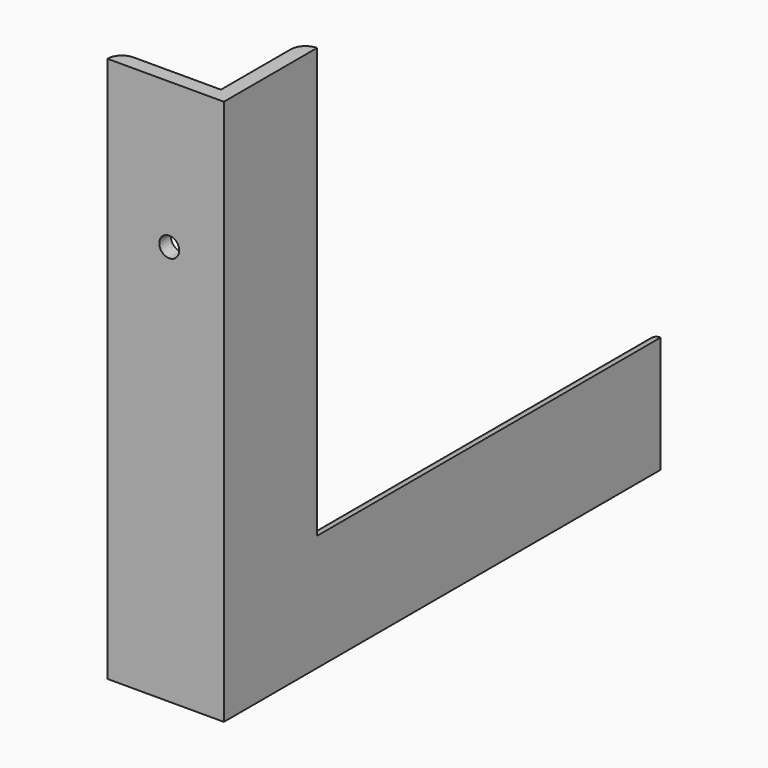
from build123d import *

# Parameters (mm, degrees)
PAD003_DEPTH    = 150
PAD004_DEPTH    = 150
SKETCH012_R     = 2.75
POCKET001_DEPTH = 150.001


with BuildPart() as part:
    # Sketch003 → Pad003 (new body)
    with BuildSketch(Plane.XY):
        with BuildLine():
            Line((0, 32), (0, 0))
            Line((0, 0), (-32, 0))
            ThreePointArc((-28, 4), (-30.828427, 2.828427), (-32, 0))
            Line((-4, 4), (-28, 4))
            Line((-4, 28), (-4, 4))
            ThreePointArc((0, 32), (-2.828427, 30.828427), (-4, 28))
        make_face()
    extrude(amount=PAD003_DEPTH)

    # Sketch004 (on Face3 of Pad003) → Pad004 (new body)
    with BuildSketch(Plane.XZ):
        with BuildLine():
            Line((-32, 0), (0, 0))
            Line((0, 0), (0, 32))
            ThreePointArc((0, 32), (-2.828427, 30.828427), (-4, 28))
            Line((-4, 4), (-4, 28))
            Line((-28, 4), (-4, 4))
            ThreePointArc((-28, 4), (-30.828427, 2.828427), (-32, 0))
        make_face()
    extrude(amount=-PAD004_DEPTH)

    # Sketch012 (on Face9 of Pad004) → Pocket001 (cut, through all)
    with BuildSketch(Plane.XZ):
        with Locations((-15, 110)):
            Circle(SKETCH012_R)
    extrude(amount=-POCKET001_DEPTH, mode=Mode.SUBTRACT)


solid = part.part
